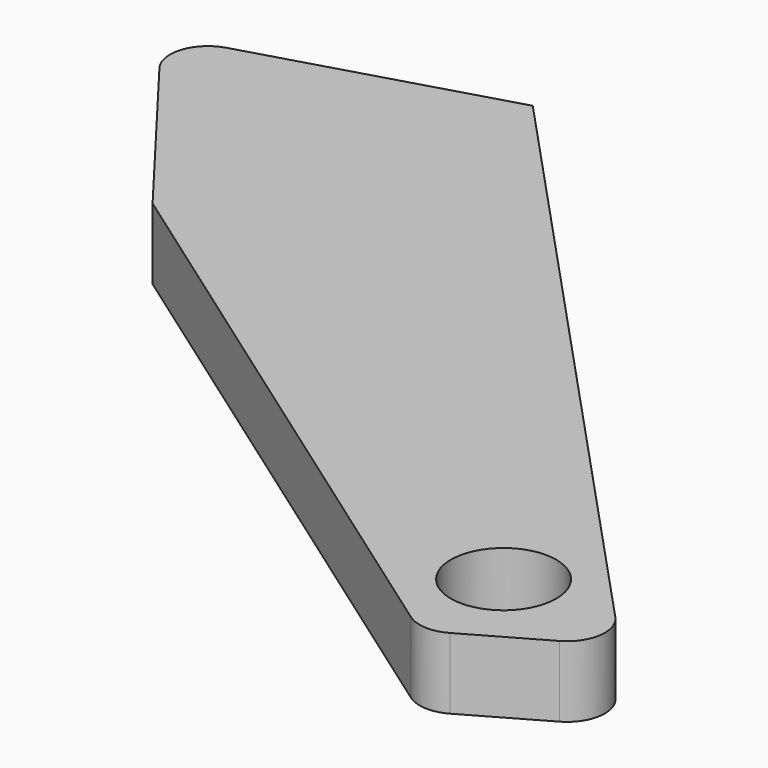
from build123d import *

# Parameters (mm, degrees)
F1_DEPTH = 9.525
F2_R     = 5.08
F3_R     = 5.08
F4_R     = 5.08
F5_R     = 7.06815
F6_DEPTH = 75.62089


with BuildPart() as f1:
    # F0 (on Top) → F1 (new body)
    with BuildSketch(Plane.XY):
        Polygon((36.595166, -42.144418), (55.044204, -31.628042), (-28.496206, 58.19229), (-68.840876, 46.343863), (-45.743927, 16.047873), align=None)
    extrude(amount=F1_DEPTH)

    # F2
    f2_edges = [f1.edges().sort_by_distance(p)[0] for p in [
        (-68.840876, 46.343863, 4.7625),
    ]]
    fillet(f2_edges, radius=F2_R)

    # F3
    f3_edges = [f1.edges().sort_by_distance(p)[0] for p in [
        (36.595166, -42.144418, 4.7625),
    ]]
    fillet(f3_edges, radius=F3_R)

    # F4
    f4_edges = [f1.edges().sort_by_distance(p)[0] for p in [
        (55.044204, -31.628042, 4.7625),
    ]]
    fillet(f4_edges, radius=F4_R)

    # F5 (on face) → F6 (cut)
    with BuildSketch(Plane(origin=(0, 0, 0), x_dir=(1, 0, 0), z_dir=(0, 0, -1))):
        with Locations((36.157202, 27.517132)):
            Circle(F5_R)
    extrude(amount=-F6_DEPTH, mode=Mode.SUBTRACT)


solid = f1.part
